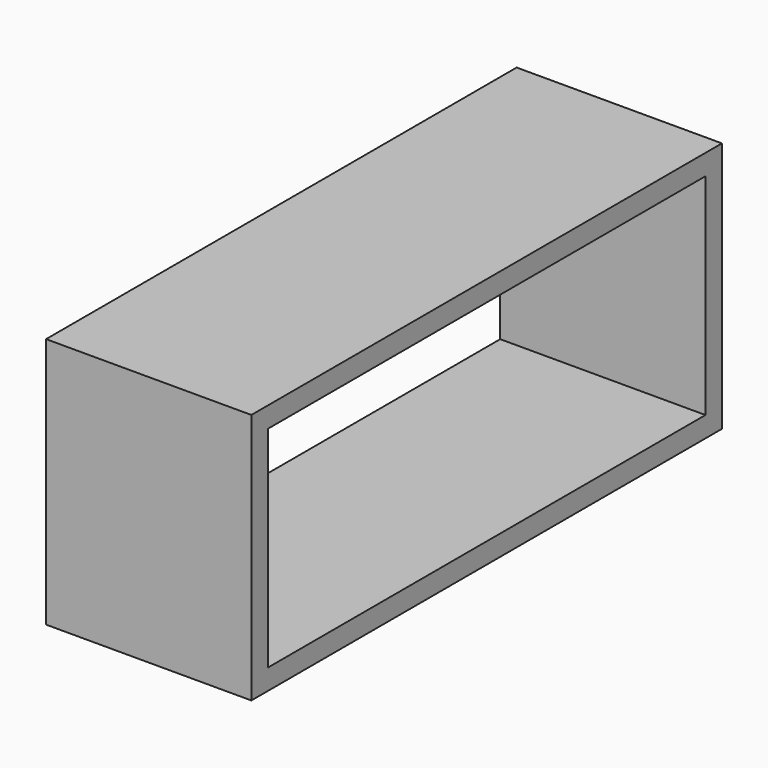
from build123d import *

# Parameters (mm, degrees)
F0_W     = 25.353162
F0_H     = 31.044497
F1_DEPTH = 72.644
F2_T     = -2.54


with BuildPart() as f1:
    # F0 (on Front) → F1 (new body)
    with BuildSketch(Plane.XZ):
        with Locations((-31.191052, 10.344381)):
            Rectangle(F0_W, F0_H)
    extrude(amount=F1_DEPTH)

    # F2
    f2_openings = [f1.faces().sort_by_distance(p)[0] for p in [
        (-18.514471, -36.322, 10.344381),
        (-43.867633, -36.322, 10.344381),
    ]]
    offset(amount=F2_T, openings=f2_openings)


solid = f1.part
